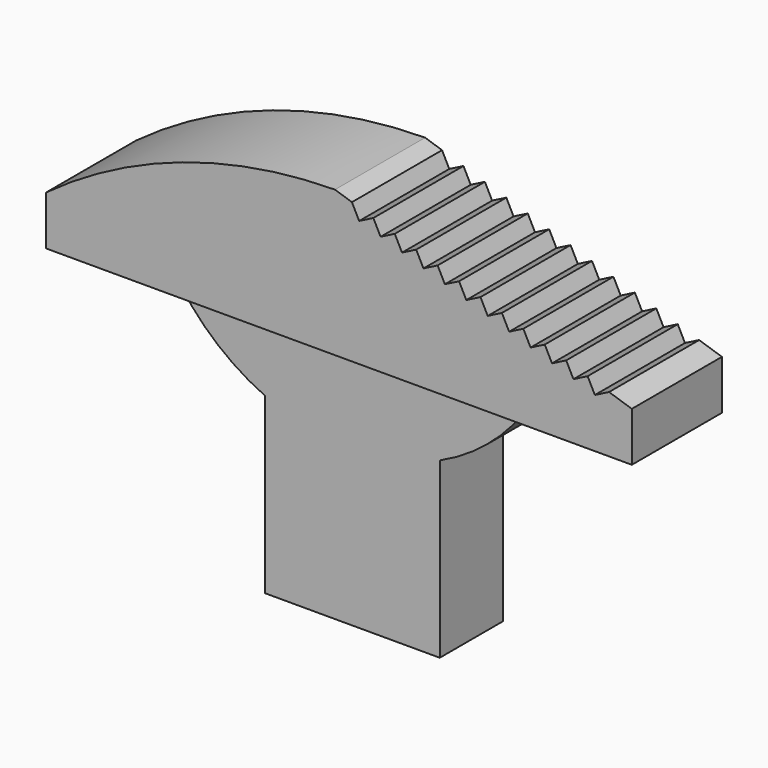
from build123d import *

# Parameters (mm, degrees)
F1_DEPTH = 1.016
F2_DEPTH = 0.7112


with BuildPart() as f1:
    # F0 (on Front) → F1 (new body, symmetric)
    with BuildSketch(Plane.XZ):
        with BuildLine():
            Line((-5.2832, 0.9017), (-3.103689, 0.9017))
            Line((-3.103689, 0.9017), (-1.5748, 0.9017))
            Line((-1.5748, 0.9017), (1.5748, 0.9017))
            Line((1.5748, 0.9017), (3.103689, 0.9017))
            Line((3.103689, 0.9017), (5.2832, 0.9017))
            Line((5.2832, 0.9017), (5.2832, 1.7907))
            Line((5.2832, 1.7907), (4.872534, 1.924134))
            Line((4.872534, 1.924134), (4.616487, 1.793671))
            Line((4.616487, 1.793671), (4.486024, 2.049718))
            Line((4.486024, 2.049718), (4.229978, 1.919256))
            Line((4.229978, 1.919256), (4.099515, 2.175303))
            Line((4.099515, 2.175303), (3.843468, 2.04484))
            Line((3.843468, 2.04484), (3.713006, 2.300887))
            Line((3.713006, 2.300887), (3.456959, 2.170425))
            Line((3.456959, 2.170425), (3.326496, 2.426472))
            Line((3.326496, 2.426472), (3.070449, 2.296009))
            Line((3.070449, 2.296009), (2.939987, 2.552056))
            Line((2.939987, 2.552056), (2.68394, 2.421594))
            Line((2.68394, 2.421594), (2.553478, 2.677641))
            Line((2.553478, 2.677641), (2.297431, 2.547178))
            Line((2.297431, 2.547178), (2.166968, 2.803225))
            Line((2.166968, 2.803225), (1.910921, 2.672763))
            Line((1.910921, 2.672763), (1.780459, 2.92881))
            Line((1.780459, 2.92881), (1.524412, 2.798347))
            Line((1.524412, 2.798347), (1.393949, 3.054394))
            Line((1.393949, 3.054394), (1.137903, 2.923932))
            Line((1.137903, 2.923932), (1.00744, 3.179979))
            Line((1.00744, 3.179979), (0.751393, 3.049516))
            Line((0.751393, 3.049516), (0.620931, 3.305563))
            Line((0.620931, 3.305563), (0.364884, 3.175101))
            Line((0.364884, 3.175101), (0.234421, 3.431148))
            Line((0.234421, 3.431148), (-0.071641, 3.530593))
            ThreePointArc((-0.071641, 3.530593), (-2.815207, 3.073362), (-5.2832, 1.7907))
            Line((-5.2832, 1.7907), (-5.2832, 0.9017))
        make_face()
    extrude(amount=F1_DEPTH, both=True)

    # F0 (on Front) → F2 (join, symmetric)
    with BuildSketch(Plane.XZ):
        with BuildLine():
            Line((-1.5748, -0.357809), (-1.5748, -3.4925))
            Line((-1.5748, -3.4925), (1.5748, -3.4925))
            Line((1.5748, -3.4925), (1.5748, -0.357809))
            ThreePointArc((1.5748, -0.357809), (2.422531, 0.170846), (3.103689, 0.9017))
            Line((3.103689, 0.9017), (1.5748, 0.9017))
            Line((1.5748, 0.9017), (-1.5748, 0.9017))
            Line((-1.5748, 0.9017), (-3.103689, 0.9017))
            ThreePointArc((-3.103689, 0.9017), (-2.422531, 0.170846), (-1.5748, -0.357809))
        make_face()
    extrude(amount=F2_DEPTH, both=True)


solid = f1.part
